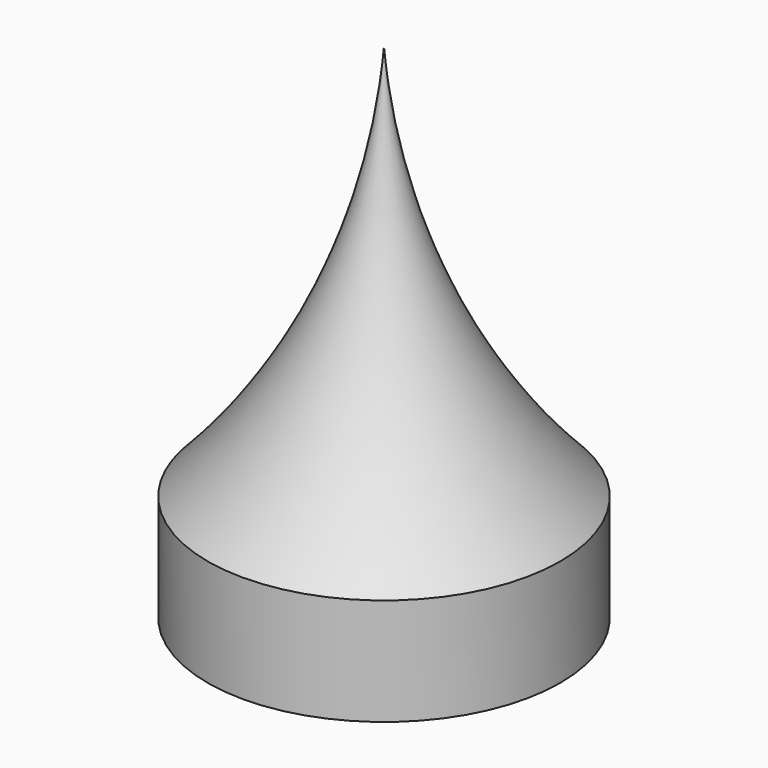
from build123d import *

# Parameters (mm, degrees)
F3_ANGLE = 90


with BuildPart() as f1:
    # F0 (on Front) → F1 (revolve)
    with BuildSketch(Plane.XZ):
        with BuildLine():
            Line((0, 8.9), (0, 7.9))
            Line((0, 7.9), (2.4, 7.9))
            Line((2.4, 7.9), (2.4, 6.8))
            Line((2.4, 6.8), (5.4, 6.8))
            Line((5.4, 6.8), (5.4, 7.9))
            ThreePointArc((5.4, 7.9), (12.3593291438, 2.820751862), (20.5002371222, 0))
            Line((20.5002371222, 0), (25.4, 0))
            ThreePointArc((25.4, 0), (14.6331199029, 2.7266739391), (5.4, 8.9))
            Line((5.4, 8.9), (0, 8.9))
        make_face()
    revolve(axis=Axis((12.5827532146, 0, 0), (1, 0, 0)))


with BuildPart() as f1_1:
    # F3: moved
    add(f1.part.rotate(Axis((0, 0, 0), (0, -1, 0)), F3_ANGLE))


solid = f1_1.part
